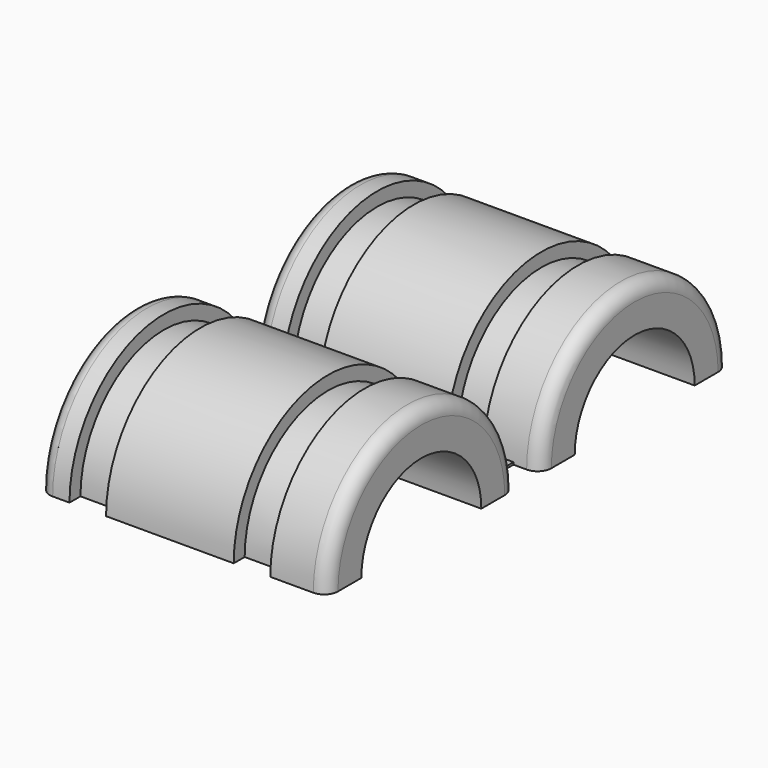
from build123d import *

# Parameters (mm, degrees)
F2_ANGLE = 180
F3_ANGLE = -180
F1_W     = 1.832515
F1_H     = 4.050821
F1_W_2   = 1.832514
F4_DEPTH = 0.25


with BuildPart() as f2:
    # F0 (on Top) → F2 (revolve)
    with BuildSketch(Plane.XY):
        with BuildLine():
            ThreePointArc((30, 11.4), (29.56066, 12.46066), (28.5, 12.9))
            Line((28.5, 12.9), (23.800393, 12.9))
            Line((23.800393, 12.9), (23.800393, 11.4))
            Line((23.800393, 11.4), (19.800393, 11.4))
            Line((19.800393, 11.4), (19.800393, 12.9))
            Line((19.800393, 12.9), (5.840044, 12.9))
            Line((5.840044, 12.9), (5.840044, 11.4))
            Line((5.840044, 11.4), (1.840044, 11.4))
            Line((1.840044, 11.4), (1.840044, 12.9))
            Line((1.840044, 12.9), (0, 12.9))
            ThreePointArc((0, 12.9), (-1.06066, 12.46066), (-1.5, 11.4))
            Line((-1.5, 11.4), (-1.5, 6.9))
            Line((-1.5, 6.9), (0, 6.9))
            Line((0, 6.9), (0, 8.8))
            Line((0, 8.8), (12.214104, 8.2))
            Line((12.214104, 8.2), (30, 8.2))
            Line((30, 8.2), (30, 11.4))
        make_face()
    revolve(axis=Axis((15, 0, 0), (1, 0, 0)), revolution_arc=F2_ANGLE)



with BuildPart() as f3:
    # F0 (on Top) → F3 (revolve)
    with BuildSketch(Plane.XY):
        with BuildLine():
            Line((19.800393, 17.768246), (23.800393, 17.768246))
            Line((23.800393, 17.768246), (23.800393, 16.268246))
            Line((23.800393, 16.268246), (28.5, 16.268246))
            ThreePointArc((28.5, 16.268246), (29.56066, 16.707586), (30, 17.768246))
            Line((30, 17.768246), (30, 20.968246))
            Line((30, 20.968246), (12.214104, 20.968246))
            Line((12.214104, 20.968246), (0, 20.368246))
            Line((0, 20.368246), (0, 22.268246))
            Line((0, 22.268246), (-1.5, 22.268246))
            Line((-1.5, 22.268246), (-1.5, 17.768246))
            ThreePointArc((-1.5, 17.768246), (-1.06066, 16.707586), (0, 16.268246))
            Line((0, 16.268246), (1.840044, 16.268246))
            Line((1.840044, 16.268246), (1.840044, 17.768246))
            Line((1.840044, 17.768246), (5.840044, 17.768246))
            Line((5.840044, 17.768246), (5.840044, 16.268246))
            Line((5.840044, 16.268246), (19.800393, 16.268246))
            Line((19.800393, 16.268246), (19.800393, 17.768246))
        make_face()
    revolve(axis=Axis((15, 29.168246, 0), (1, 0, 0)), revolution_arc=F3_ANGLE)


with BuildPart() as f2_1:
    add(f2.part)

    add(f3.part)  # F4 merges F3
    # F1 (on Top) → F4 (join)
    with BuildSketch(Plane.XY):
        with Locations((26.144934, 14.680172)):
            Rectangle(F1_W, F1_H)
        with Locations((9.618169, 14.680172)):
            Rectangle(F1_W_2, F1_H)
    extrude(amount=F4_DEPTH)


solid = f2_1.part
